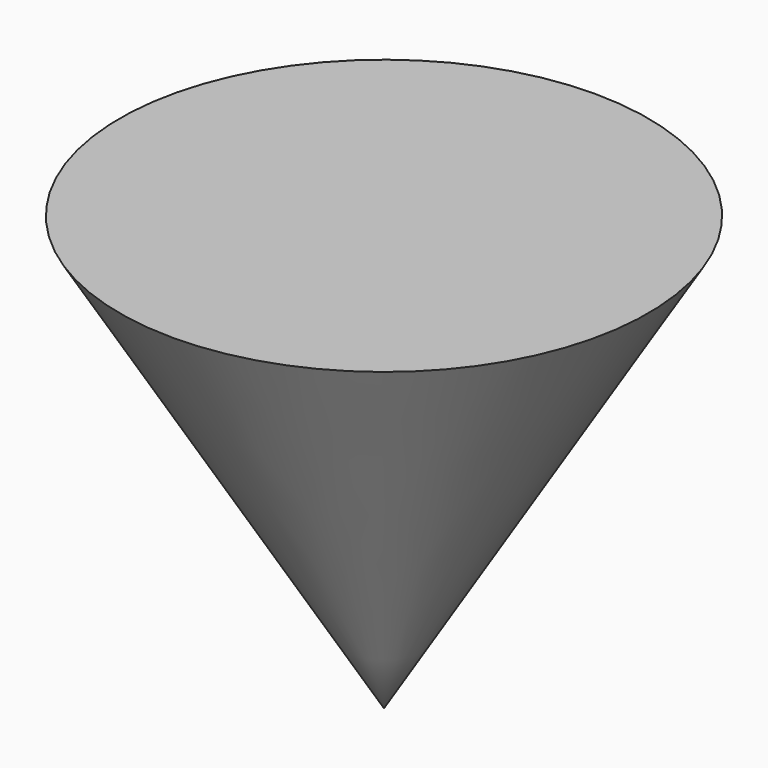
from build123d import *


with BuildPart() as f1:
    # F0 (on Right) → F1 (revolve)
    with BuildSketch(Plane.YZ):
        Polygon((0, -32.050788), (0, 32.050788), (-39.040484, 32.050788), align=None)
    revolve(axis=Axis((0, 0, 0), (0, 0, -1)))


solid = f1.part
